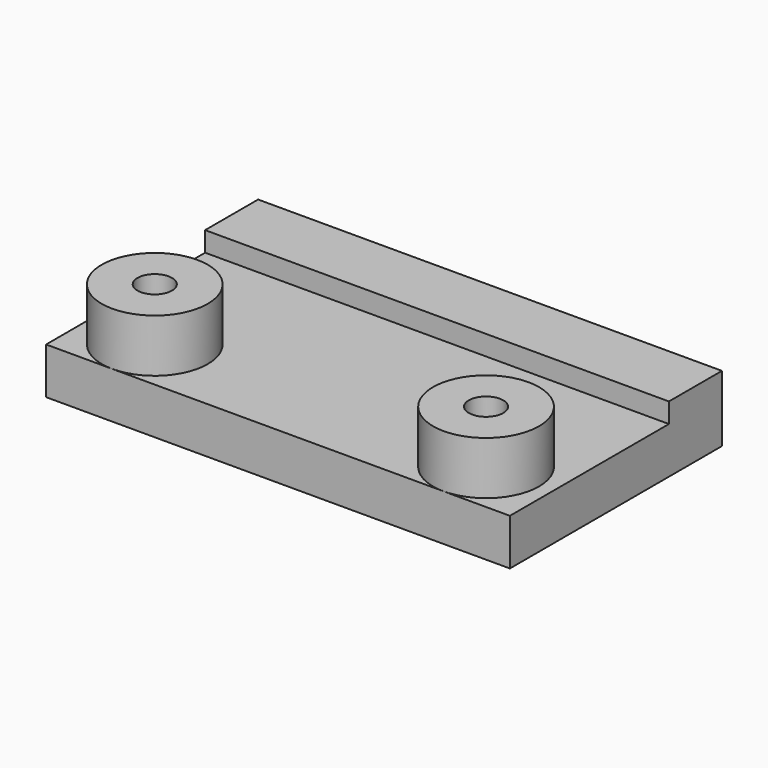
from build123d import *

# Parameters (mm, degrees)
SKETCH001_R      = 8
SKETCH001_R_2    = 2.6
EXTRUDE001_DEPTH = 15
SKETCH_W         = 70
SKETCH_H         = 40
SKETCH_R         = 6
EXTRUDE_DEPTH    = 7
SKETCH002_W      = 70
SKETCH002_H      = 10
EXTRUDE002_DEPTH = 3


with BuildPart() as extrude001:
    # Sketch001 → Extrude001 (new body)
    with BuildSketch(Plane.XY):
        with Locations((-25, -12)):
            Circle(SKETCH001_R)
        with Locations((-25, -12)):
            Circle(SKETCH001_R_2, mode=Mode.SUBTRACT)
        with Locations((25, -12)):
            Circle(SKETCH001_R)
        with Locations((25, -12)):
            Circle(SKETCH001_R_2, mode=Mode.SUBTRACT)
    extrude(amount=EXTRUDE001_DEPTH)


with BuildPart() as extrude_body:
    # Sketch → Extrude (new body)
    with BuildSketch(Plane.XY):
        Rectangle(SKETCH_W, SKETCH_H)
        with Locations((-25, -12)):
            Circle(SKETCH_R, mode=Mode.SUBTRACT)
        with Locations((25, -12)):
            Circle(SKETCH_R, mode=Mode.SUBTRACT)
    extrude(amount=EXTRUDE_DEPTH)


with BuildPart() as fusion:
    # Sketch002 → Extrude002 (new body)
    with BuildSketch(Plane.XY):
        with Locations((0, 15)):
            Rectangle(SKETCH002_W, SKETCH002_H)
    extrude(amount=EXTRUDE002_DEPTH)


with BuildPart() as fusion_1:
    # Extrude002 placement: moved
    add(fusion.part.moved(Location((0, 0, 7))))

    # Fusion: union Extrude001, Extrude body
    add(extrude001.part)
    add(extrude_body.part)


solid = fusion_1.part
